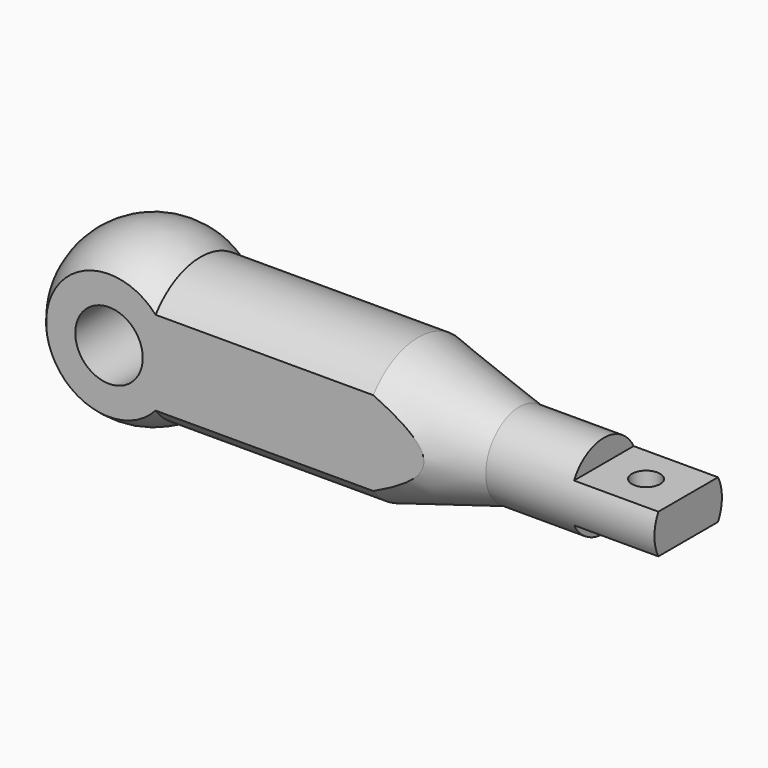
from build123d import *

# Parameters (mm, degrees)
F2_W          = 15
F2_H          = 4
F3_DEPTH      = 15.001
F3_DEPTH_BACK = 15.001
F5_DEPTH      = 110.001
F6_R          = 2.5
F7_DEPTH      = 18.501
F8_R          = 6
F9_DEPTH      = 20.001


with BuildPart() as f1:
    # F0 (on Front) → F1 (revolve)
    with BuildSketch(Plane.XZ):
        with BuildLine():
            ThreePointArc((8.2915619759, 12.5), (-7.0931858273, 13.2169101843), (-15, 0))
            Line((-15, 0), (95, 0))
            Line((95, 0), (95, 7.5))
            Line((95, 7.5), (65, 7.5))
            Line((65, 7.5), (47, 12.5))
            Line((47, 12.5), (8.2915619759, 12.5))
        make_face()
    revolve(axis=Axis((55.0287924707, 0, 0), (1, 0, 0)))

    # F2 (on Front) → F3 (cut, two sides)
    with BuildSketch(Plane.XZ) as f3_sk:
        with Locations((87.5, 5.5)):
            Rectangle(F2_W, F2_H)
        with Locations((87.5, -5.5)):
            Rectangle(F2_W, F2_H)
    extrude(amount=-F3_DEPTH, mode=Mode.SUBTRACT)
    extrude(f3_sk.sketch, amount=F3_DEPTH_BACK, mode=Mode.SUBTRACT)

    # F4 (on face) → F5 (cut, through all)
    with BuildSketch(Plane.YZ.offset(95)):
        with BuildLine():
            Line((-10, -11.1803398875), (-10, 11.1803398875))
            ThreePointArc((-10, 11.1803398875), (-15, 0), (-10, -11.1803398875))
        make_face()
        with BuildLine():
            ThreePointArc((10, -11.1803398875), (15, 0), (10, 11.1803398875))
            Line((10, 11.1803398875), (10, -11.1803398875))
        make_face()
    extrude(amount=-F5_DEPTH, mode=Mode.SUBTRACT)

    # F6 (on face) → F7 (cut, through all)
    with BuildSketch(Plane.XY.offset(3.5)):
        with Locations((87.5, 0)):
            Circle(F6_R)
    extrude(amount=-F7_DEPTH, mode=Mode.SUBTRACT)

    # F8 (on face) → F9 (cut, through all)
    with BuildSketch(Plane.XZ.offset(10)):
        Circle(F8_R)
    extrude(amount=-F9_DEPTH, mode=Mode.SUBTRACT)


solid = f1.part
